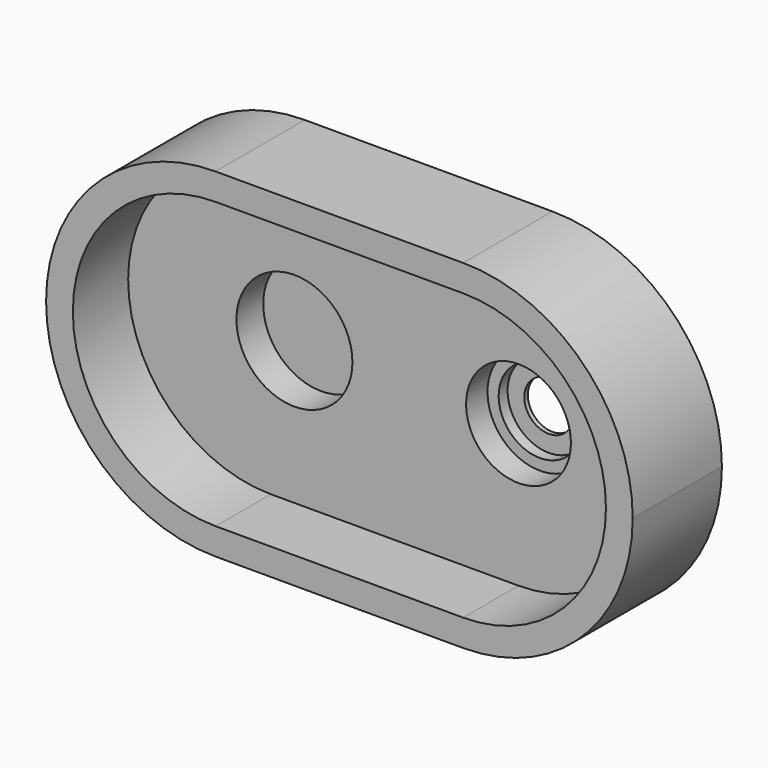
from build123d import *

# Parameters (mm, degrees)
F1_DEPTH = 50
F3_DEPTH = 31
F4_R     = 26
F5_DEPTH = 15


with BuildPart() as f1:
    # F0 (on Front) → F1 (new body)
    with BuildSketch(Plane.XZ):
        with BuildLine():
            ThreePointArc((55.5, 51.9206124771), (30.2492433933, 69.7207521053), (0, 76))
            ThreePointArc((0, 76), (-76, 0), (0, -76))
            ThreePointArc((0, -76), (30.2492433933, -69.7207521053), (55.5, -51.9206124771))
            ThreePointArc((55.5, -51.9206124771), (35, 0), (55.5, 51.9206124771))
        make_face()
        with BuildLine():
            Line((111, 76), (0, 76))
            ThreePointArc((0, 76), (30.2492433933, 69.7207521053), (55.5, 51.9206124771))
            ThreePointArc((55.5, 51.9206124771), (80.7507566067, 69.7207521053), (111, 76))
        make_face()
        with BuildLine():
            ThreePointArc((55.5, -51.9206124771), (30.2492433933, -69.7207521053), (0, -76))
            Line((0, -76), (111, -76))
            ThreePointArc((111, -76), (80.7507566067, -69.7207521053), (55.5, -51.9206124771))
        make_face()
        with BuildLine():
            ThreePointArc((111, 76), (80.7507566067, 69.7207521053), (55.5, 51.9206124771))
            ThreePointArc((55.5, 51.9206124771), (70.6894617323, 27.9105714739), (76, 0))
            ThreePointArc((76, 0), (70.6894617323, -27.9105714739), (55.5, -51.9206124771))
            ThreePointArc((55.5, -51.9206124771), (80.7507566067, -69.7207521053), (111, -76))
            ThreePointArc((111, -76), (164.7401153702, -53.7401153702), (187, 0))
            ThreePointArc((187, 0), (164.7401153702, 53.7401153702), (111, 76))
        make_face()
        with BuildLine():
            ThreePointArc((76, 0), (70.6894617323, 27.9105714739), (55.5, 51.9206124771))
            ThreePointArc((55.5, 51.9206124771), (35, 0), (55.5, -51.9206124771))
            ThreePointArc((55.5, -51.9206124771), (70.6894617323, -27.9105714739), (76, 0))
        make_face()
    extrude(amount=F1_DEPTH)

    # F2 (on face) → F3 (cut)
    with BuildSketch(Plane.XZ.offset(50)):
        with BuildLine():
            ThreePointArc((55.5, 31.870833061), (32.0645184285, 55.3883260078), (0, 64))
            ThreePointArc((0, 64), (-64, 0), (0, -64))
            ThreePointArc((0, -64), (32.0645184285, -55.3883260078), (55.5, -31.870833061))
            ThreePointArc((55.5, -31.870833061), (47, 0), (55.5, 31.870833061))
        make_face()
        with BuildLine():
            Line((111, 64), (0, 64))
            ThreePointArc((0, 64), (32.0645184285, 55.3883260078), (55.5, 31.870833061))
            ThreePointArc((55.5, 31.870833061), (78.9354815715, 55.3883260078), (111, 64))
        make_face()
        with BuildLine():
            ThreePointArc((55.5, -31.870833061), (32.0645184285, -55.3883260078), (0, -64))
            Line((0, -64), (111, -64))
            ThreePointArc((111, -64), (78.9354815715, -55.3883260078), (55.5, -31.870833061))
        make_face()
        with BuildLine():
            ThreePointArc((111, 64), (78.9354815715, 55.3883260078), (55.5, 31.870833061))
            ThreePointArc((55.5, 31.870833061), (61.838499335, 16.4924225025), (64, 0))
            ThreePointArc((64, 0), (61.838499335, -16.4924225025), (55.5, -31.870833061))
            ThreePointArc((55.5, -31.870833061), (78.9354815715, -55.3883260078), (111, -64))
            ThreePointArc((111, -64), (156.2548339959, -45.2548339959), (175, 0))
            ThreePointArc((175, 0), (156.2548339959, 45.2548339959), (111, 64))
        make_face()
        with BuildLine():
            ThreePointArc((64, 0), (61.838499335, 16.4924225025), (55.5, 31.870833061))
            ThreePointArc((55.5, 31.870833061), (47, 0), (55.5, -31.870833061))
            ThreePointArc((55.5, -31.870833061), (61.838499335, -16.4924225025), (64, 0))
        make_face()
    extrude(amount=-F3_DEPTH, mode=Mode.SUBTRACT)

    # F4 (on face) → F5 (cut)
    with BuildSketch(Plane.XZ.offset(19)):
        with Locations((10.5443401262, 0)):
            Circle(F4_R)
    extrude(amount=-F5_DEPTH, mode=Mode.SUBTRACT)

    # F7 (on offset) → F8 (revolve, cut)
    with BuildSketch(Plane.YZ.offset(111)):
        Polygon((0, 0), (0, 11), (-2, 11), (-2, 18.5), (-7, 18.5), (-7, 23.5), (-19, 23.5), (-19, 0), align=None)
    revolve(axis=Axis((111, -17.0189570636, 0), (0, 1, 0)), mode=Mode.SUBTRACT)


solid = f1.part
